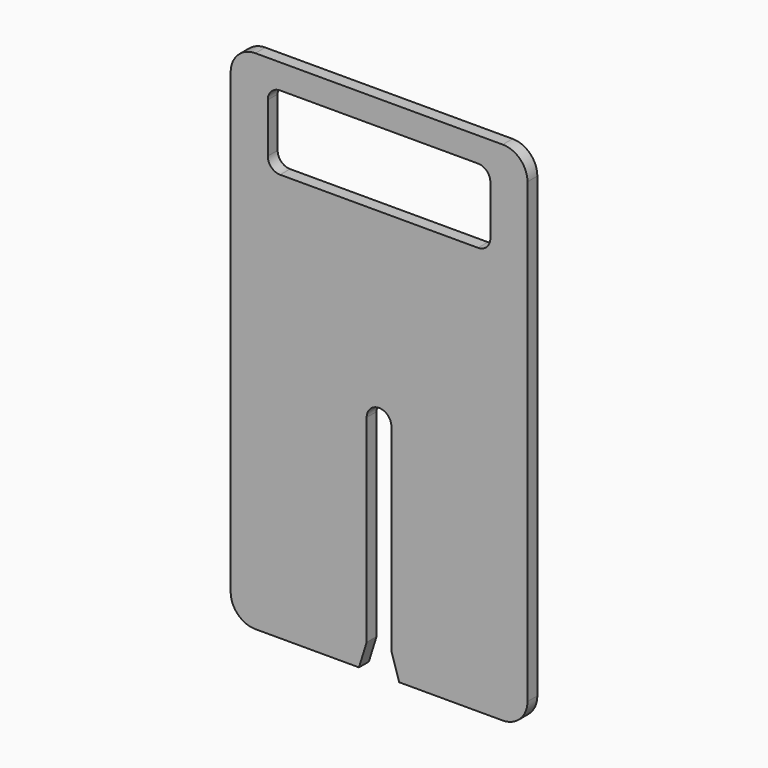
from build123d import *

# Parameters (mm, degrees)
F1_DEPTH = 6.35


with BuildPart() as f1:
    # F0 (on Front) → F1 (new body)
    with BuildSketch(Plane.XZ):
        with BuildLine():
            ThreePointArc((-6.35, 0), (0, 6.35), (6.35, 0))
            Line((6.35, 0), (6.35, -101.6))
            Line((6.35, -101.6), (10.31875, -114.3))
            Line((10.31875, -114.3), (63.5, -114.3))
            ThreePointArc((63.5, -114.3), (72.480256, -110.580256), (76.2, -101.6))
            Line((76.2, -101.6), (76.2, 133.35))
            ThreePointArc((76.2, 133.35), (72.480256, 142.330256), (63.5, 146.05))
            Line((63.5, 146.05), (-63.5, 146.05))
            ThreePointArc((-63.5, 146.05), (-72.480256, 142.330256), (-76.2, 133.35))
            Line((-76.2, 133.35), (-76.2, -101.6))
            ThreePointArc((-76.2, -101.6), (-72.480256, -110.580256), (-63.5, -114.3))
            Line((-63.5, -114.3), (-10.31875, -114.3))
            Line((-10.31875, -114.3), (-6.35, -101.6))
            Line((-6.35, -101.6), (-6.35, 0))
        make_face()
        with BuildLine():
            ThreePointArc((-57.15, 127), (-55.290128, 131.490128), (-50.8, 133.35))
            Line((-50.8, 133.35), (50.8, 133.35))
            ThreePointArc((50.8, 133.35), (55.290128, 131.490128), (57.15, 127))
            Line((57.15, 127), (57.15, 101.6))
            ThreePointArc((57.15, 101.6), (55.290128, 97.109872), (50.8, 95.25))
            Line((50.8, 95.25), (-50.8, 95.25))
            ThreePointArc((-50.8, 95.25), (-55.290128, 97.109872), (-57.15, 101.6))
            Line((-57.15, 101.6), (-57.15, 127))
        make_face(mode=Mode.SUBTRACT)
    extrude(amount=F1_DEPTH)


solid = f1.part
